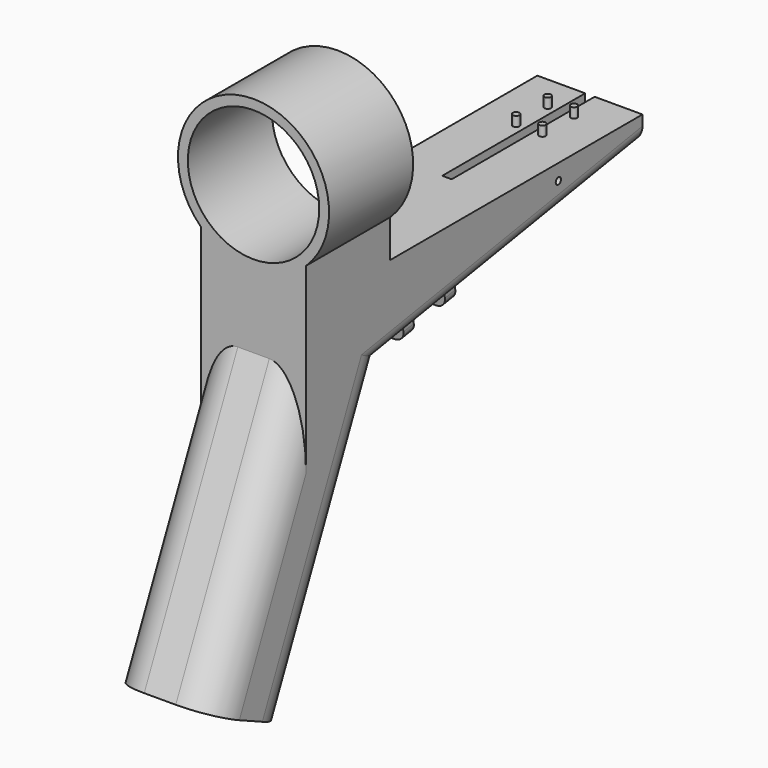
from build123d import *

# Parameters (mm, degrees)
F1_DEPTH  = 50.8
F2_R      = 31.75
F3_DEPTH  = 50.8
F4_R      = 17.78
F5_R      = 7.62
F6_R      = 1.5875
F7_DEPTH  = 4.7625
F8_W      = 4.572
F8_H      = 86.36
F9_DEPTH  = 127
F11_D     = 3.175
F12_W     = 25.4
F12_H     = 6.35
F13_DEPTH = 15.24
F14_R     = 5.08
F15_W     = 12.7
F15_H     = 6.35
F16_DEPTH = 50.8


with BuildPart() as f1:
    # F0 (on Right) → F1 (new body)
    with BuildSketch(Plane.YZ):
        Polygon((0, 39.7960290042), (0, 0), (-56.4969599977, -124.290533917), (-10.2505199437, -145.3121128855), (50.8, -11.0039709958), (203.2, 14.3960290042), (203.2, 27.0960290042), (50.8, 27.0960290042), (50.8, 39.7960290042), align=None)
    extrude(amount=F1_DEPTH)

    # F2 (on face) → F3 (join)
    with BuildSketch(Plane.XZ):
        with BuildLine():
            Line((0, 45.3162242728), (0, 39.7960290042))
            Line((0, 39.7960290042), (7.3694660021, 39.7960290042))
            ThreePointArc((7.3694660021, 39.7960290042), (25.4, 35.0335290042), (43.4305339979, 39.7960290042))
            Line((43.4305339979, 39.7960290042), (50.8, 39.7960290042))
            Line((50.8, 39.7960290042), (50.8, 45.3162242728))
            ThreePointArc((50.8, 45.3162242728), (25.4, 108.0585290042), (0, 45.3162242728))
        make_face()
        with Locations((25.4, 71.5460290042)):
            Circle(F2_R, mode=Mode.SUBTRACT)
    extrude(amount=-F3_DEPTH)

    # F4
    f4_edges = [f1.edges().sort_by_distance(p)[0] for p in [
        (50.8, -28.24848, -62.145267),
        (0, -28.24848, -62.145267),
        (50.8, 20.27474, -78.158042),
        (0, 20.27474, -78.158042),
    ]]
    fillet(f4_edges, radius=F4_R)

    # F5
    f5_edges = [f1.edges().sort_by_distance(p)[0] for p in [
        (50.8, 127, 1.696029),
        (0, 127, 1.696029),
    ]]
    fillet(f5_edges, radius=F5_R)

    # F6 (on face) → F7 (join)
    with BuildSketch(Plane.XY.offset(27.0960290042)):
        with Locations((19.05, 185.6386214495)):
            Circle(F6_R)
        with Locations((31.75, 185.6386214495)):
            Circle(F6_R)
        with Locations((31.75, 166.5886214495)):
            Circle(F6_R)
        with Locations((19.05, 166.5886214495)):
            Circle(F6_R)
    extrude(amount=F7_DEPTH)

    # F8 (on face) → F9 (cut)
    with BuildSketch(Plane.XY.offset(27.0960290042)):
        with Locations((25.4, 160.02)):
            Rectangle(F8_W, F8_H)
    extrude(amount=-F9_DEPTH, mode=Mode.SUBTRACT)

    # F11 (through all)
    with Locations(Plane.YZ.offset(50.8)):
        with Locations((152.4, 19.4760290042)):
            Hole(F11_D / 2)

    # F12 (on face) → F13 (join)
    with BuildSketch(Plane(origin=(0, 3.157400702, -18.9444042121), x_dir=(1, 0, 0), z_dir=(0, 0.1643989873, -0.9863939238))):
        with Locations((25.4, -99.3757092261)):
            Rectangle(F12_W, F12_H)
        with Locations((25.4, -73.9757092261)):
            Rectangle(F12_W, F12_H)
    extrude(amount=F13_DEPTH)

    # F14
    f14_edges = [f1.edges().sort_by_distance(p)[0] for p in [
        (38.1, 103.686437, -17.639782),
        (38.1, 78.632031, -21.815516),
        (12.7, 78.632031, -21.815516),
        (12.7, 103.686437, -17.639782),
    ]]
    fillet(f14_edges, radius=F14_R)

    # F15 (on face) → F16 (cut)
    with BuildSketch(Plane(origin=(0, 101.1553964653, 16.8592327442), x_dir=(-1, 0, 0), z_dir=(0, 0.9863939238, 0.1643989873))):
        with Locations((-25.4, -22.3807186834)):
            Rectangle(F15_W, F15_H)
    extrude(amount=-F16_DEPTH, mode=Mode.SUBTRACT)


solid = f1.part
